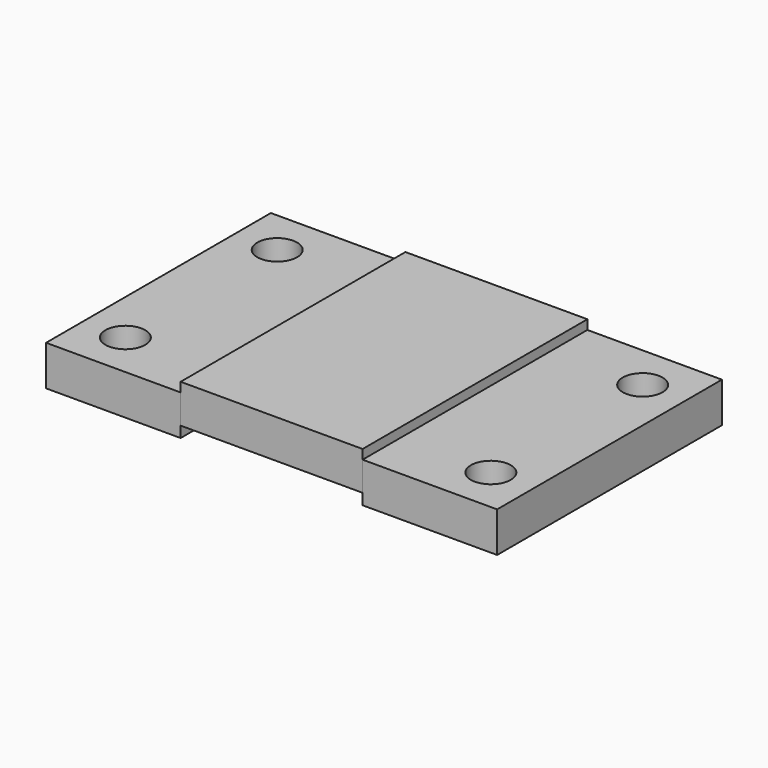
from build123d import *

# Parameters (mm, degrees)
F0_W     = 42.880001
F0_H     = 89.550002
F0_R     = 6.35
F0_W_2   = 42.8752
F1_DEPTH = 12.8
F0_W_3   = 58.002259
F2_DEPTH = 15.799999
F3_DEPTH = 3.499993


with BuildPart() as f1:
    # F0 (on Top) → F1 (new body)
    with BuildSketch(Plane.XY):
        with Locations((-50.438729, 0)):
            Rectangle(F0_W, F0_H)
        with Locations((-58.238729, -30.245002)):
            Circle(F0_R, mode=Mode.SUBTRACT)
        with Locations((-58.23893, 30.246201)):
            Circle(F0_R, mode=Mode.SUBTRACT)
        with Locations((50.44113, 0)):
            Rectangle(F0_W_2, F0_H)
        with Locations((58.23893, -30.246201)):
            Circle(F0_R, mode=Mode.SUBTRACT)
        with Locations((58.23893, 30.246201)):
            Circle(F0_R, mode=Mode.SUBTRACT)
    extrude(amount=F1_DEPTH)


with BuildPart() as f2:
    # F0 (on Top) → F2 (new body)
    with BuildSketch(Plane.XY):
        with Locations((0.002401, 0)):
            Rectangle(F0_W_3, F0_H)
    extrude(amount=F2_DEPTH)

    # F0 (on Top) → F3 (cut)
    with BuildSketch(Plane.XY):
        with Locations((0.002401, 0)):
            Rectangle(F0_W_3, F0_H)
    extrude(amount=F3_DEPTH, mode=Mode.SUBTRACT)


solid = Compound([f1.part, f2.part])
